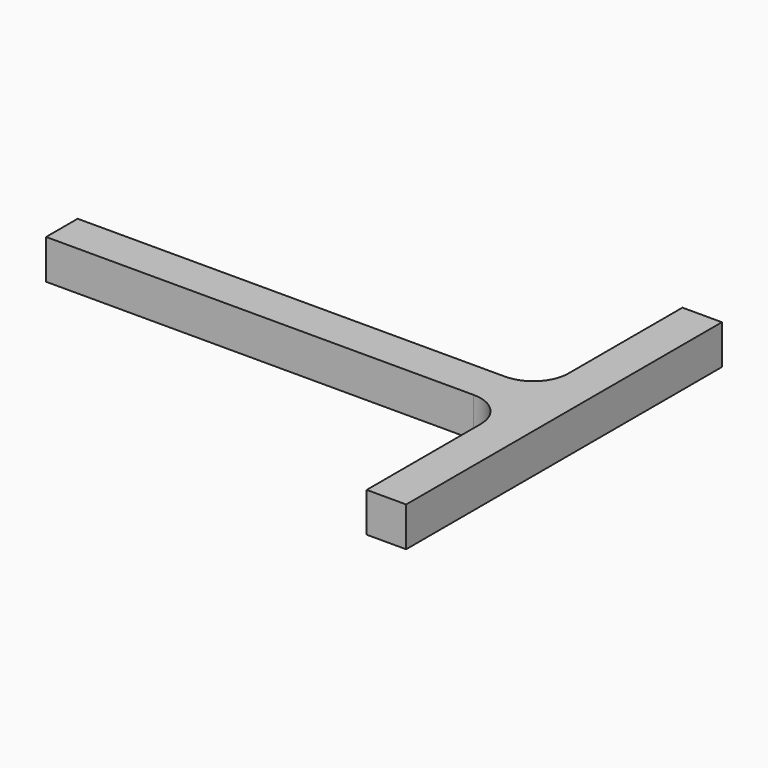
from build123d import *

# Parameters (mm, degrees)
F0_W     = 105.5
F0_H     = 9
F0_W_2   = 4.5
F1_DEPTH = 9
F2_R     = 8


with BuildPart() as f1:
    # F0 (on Top) → F1 (new body)
    with BuildSketch(Plane.XY):
        with Locations((-2.25, 0)):
            Rectangle(F0_W, F0_H)
        with Locations((52.75, 0)):
            Rectangle(F0_W_2, F0_H)
        Polygon((55, -4.5), (50.5, -4.5), (50.5, -45), (59.5, -45), (59.5, 45), (50.5, 45), (50.5, 4.5), (55, 4.5), align=None)
    extrude(amount=F1_DEPTH)

    # F2
    f2_edges = [f1.edges().sort_by_distance(p)[0] for p in [
        (50.5, -4.5, 4.5),
        (50.5, 4.5, 4.5),
    ]]
    fillet(f2_edges, radius=F2_R)


solid = f1.part
